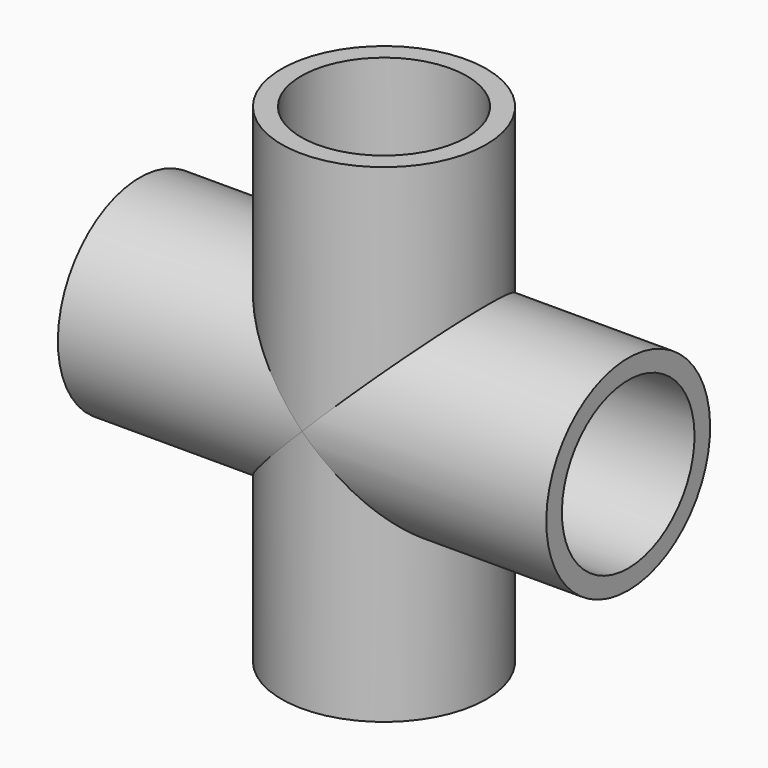
from build123d import *

# Parameters (mm, degrees)
SOCKETRIGHT_R                       = 16.7005
SOCKETRIGHT_DEPTH                   = 31.4325
SOCKETRIGHT_PITCH_ANGLE             = 90
SOCKETTOP_R                         = 16.7005
SOCKETTOP_DEPTH                     = 31.4325
SOCKETBOTTOM_R                      = 16.7005
SOCKETBOTTOM_DEPTH                  = 31.4325
SOCKETLEFT_R                        = 16.7005
SOCKETLEFT_DEPTH                    = 31.4325
SOCKETLEFT_PITCH_ANGLE              = 90
OBJ1_R           = 13.0683
OBJ1_DEPTH       = 108.2675
OBJ1_PITCH_ANGLE = 90
OBJ2             = 13.0683
OBJ3         = 108.2675
OBJ4_R           = 20.6375
OBJ4_DEPTH       = 98.425
OBJ4_PITCH_ANGLE = 90
OBJ5             = 20.6375
OBJ6         = 98.425


with BuildPart() as socketright:
    # SocketRight → SocketRight (new body)
    with BuildSketch(Plane.XY):
        Circle(SOCKETRIGHT_R)
    extrude(amount=SOCKETRIGHT_DEPTH)


with BuildPart() as socketright_1:
    # SocketRight pitch: moved
    add(socketright.part.rotate(Axis((0, 0, 0), (0, 1, 0)), SOCKETRIGHT_PITCH_ANGLE))


with BuildPart() as socketright_2:
    # SocketRight placement: moved
    add(socketright_1.part.moved(Location((20.6375, 0, 0))))


with BuildPart() as sockettop:
    # SocketTop → SocketTop (new body)
    with BuildSketch(Plane.XY.offset(20.6375)):
        Circle(SOCKETTOP_R)
    extrude(amount=SOCKETTOP_DEPTH)


with BuildPart() as socketbottom:
    # SocketBottom → SocketBottom (new body)
    with BuildSketch(Plane.XY.offset(-52.07)):
        Circle(SOCKETBOTTOM_R)
    extrude(amount=SOCKETBOTTOM_DEPTH)


with BuildPart() as sockets:
    # SocketLeft → SocketLeft (new body)
    with BuildSketch(Plane.XY):
        Circle(SOCKETLEFT_R)
    extrude(amount=SOCKETLEFT_DEPTH)


with BuildPart() as sockets_1:
    # SocketLeft pitch: moved
    add(sockets.part.rotate(Axis((0, 0, 0), (0, 1, 0)), SOCKETLEFT_PITCH_ANGLE))


with BuildPart() as sockets_2:
    # SocketLeft placement: moved
    add(sockets_1.part.moved(Location((-52.07, 0, 0))))

    # Sockets: union SocketRight, SocketTop, SocketBottom
    add(socketright_2.part)
    add(sockettop.part)
    add(socketbottom.part)


with BuildPart() as obj1:
    # obj1 → obj1 (new body)
    with BuildSketch(Plane.XY):
        Circle(OBJ1_R)
    extrude(amount=OBJ1_DEPTH)


with BuildPart() as obj1_1:
    # obj1 pitch: moved
    add(obj1.part.rotate(Axis((0, 0, 0), (0, 1, 0)), OBJ1_PITCH_ANGLE))


with BuildPart() as obj1_2:
    # obj1 placement: moved
    add(obj1_1.part.moved(Location((-54.13375, 0, 0))))


with BuildPart() as innercrossfusion:
    with BuildSketch(Plane.XY.offset(-54.13375)):
        Circle(OBJ2)
    extrude(amount=OBJ3)

    # InnerCrossFusion: union obj1
    add(obj1_2.part)


with BuildPart() as obj4:
    # obj4 → obj4 (new body)
    with BuildSketch(Plane.XY):
        Circle(OBJ4_R)
    extrude(amount=OBJ4_DEPTH)


with BuildPart() as obj4_1:
    # obj4 pitch: moved
    add(obj4.part.rotate(Axis((0, 0, 0), (0, 1, 0)), OBJ4_PITCH_ANGLE))


with BuildPart() as obj4_2:
    # obj4 placement: moved
    add(obj4_1.part.moved(Location((-49.2125, 0, 0))))


with BuildPart() as cross:
    with BuildSketch(Plane.XY.offset(-49.2125)):
        Circle(OBJ5)
    extrude(amount=OBJ6)

    # OuterCrossFusion: union obj4
    add(obj4_2.part)

    # Cut: cut InnerCrossFusion
    add(innercrossfusion.part, mode=Mode.SUBTRACT)

    # Cross: cut Sockets
    add(sockets_2.part, mode=Mode.SUBTRACT)


solid = cross.part
